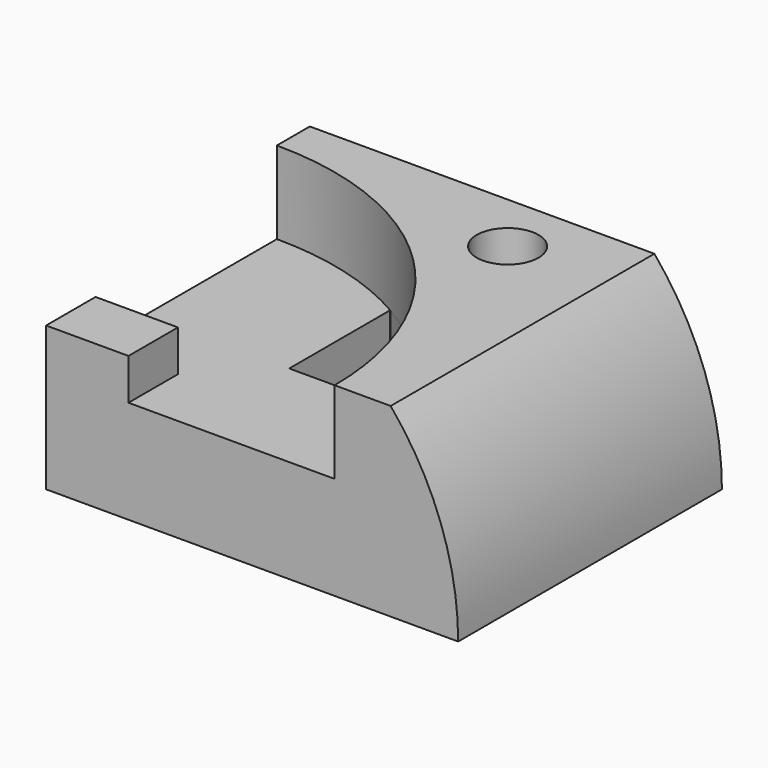
from build123d import *

# Parameters (mm, degrees)
F0_W      = 100
F0_H      = 45
F1_DEPTH  = 80
F3_DEPTH  = 80
F5_DEPTH  = 20
F6_W      = 20
F6_H      = 15
F7_DEPTH  = 10
F8_R      = 7.5
F9_DEPTH  = 30
F11_DEPTH = 25


with BuildPart() as f1:
    # F0 (on Front) → F1 (new body)
    with BuildSketch(Plane.XZ):
        with Locations((-50, 22.5)):
            Rectangle(F0_W, F0_H)
    extrude(amount=F1_DEPTH)

    # F2 (on face) → F3 (cut, through all)
    with BuildSketch(Plane.XZ.offset(80)):
        with BuildLine():
            ThreePointArc((-16.3809735262, 45), (-4.2226032243, 23.944395449), (0, 0))
            Line((0, 0), (0, 45))
            Line((0, 45), (-16.3809735262, 45))
        make_face()
    extrude(amount=-F3_DEPTH, mode=Mode.SUBTRACT)

    # F4 (on face) → F5 (cut)
    with BuildSketch(Plane.XY.offset(45)):
        with BuildLine():
            Line((-100, -80), (-30, -80))
            ThreePointArc((-30, -80), (-50.5025253169, -30.5025253169), (-100, -10))
            Line((-100, -10), (-100, -80))
        make_face()
    extrude(amount=-F5_DEPTH, mode=Mode.SUBTRACT)

    # F6 (on face) → F7 (join)
    with BuildSketch(Plane.XY.offset(25)):
        with Locations((-90, -72.5)):
            Rectangle(F6_W, F6_H)
    extrude(amount=F7_DEPTH)

    # F8 (on face) → F9 (cut)
    with BuildSketch(Plane.XY.offset(45)):
        with Locations((-40, -15)):
            Circle(F8_R)
    extrude(amount=-F9_DEPTH, mode=Mode.SUBTRACT)

    # F10 (on face) → F11 (cut)
    with BuildSketch(Plane(origin=(0, 0, 0), x_dir=(1, 0, 0), z_dir=(0, 0, -1))):
        with BuildLine():
            Line((-36.7544467966, 50), (-65, 50))
            Line((-65, 50), (-65, 19.5))
            Line((-65, 19.5), (-64.7899162171, 19.5))
            ThreePointArc((-64.7899162171, 19.5), (-48.4641812562, 32.6284960508), (-36.7544467966, 50))
        make_face()
    extrude(amount=-F11_DEPTH, mode=Mode.SUBTRACT)


solid = f1.part
